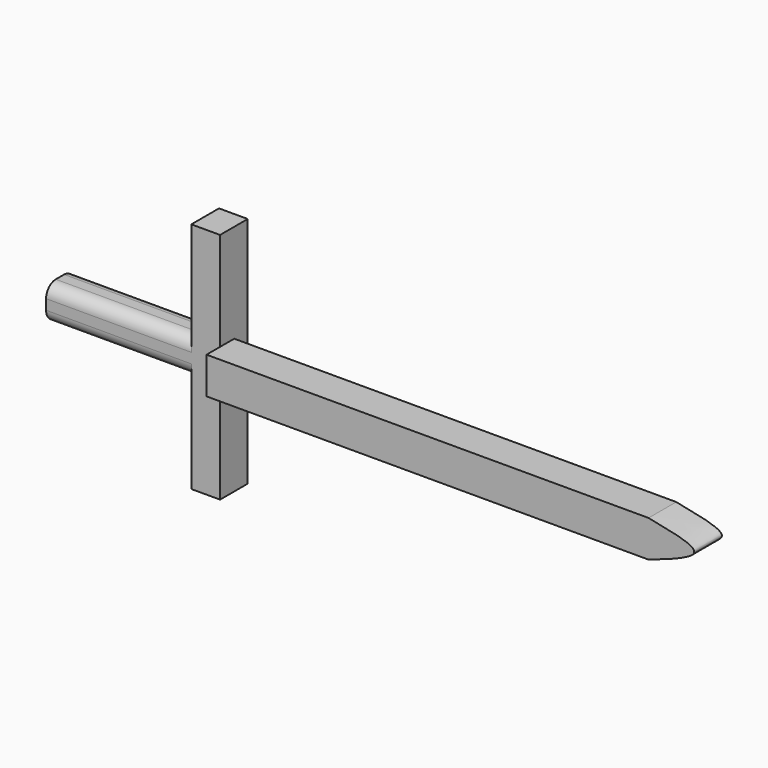
from build123d import *

# Parameters (mm, degrees)
F0_W     = 4.2195208371
F0_H     = 14.7683215328
F0_H_2   = 14.40386381
F0_H_3   = 5.0528156571
F0_W_2   = 21.3320218027
F1_DEPTH = 2.54
F2_R     = 1.778
F3_W     = 64.9182964116
F3_H     = 5.3898948245
F4_DEPTH = 5.08


with BuildPart() as f1:
    # F0 (on Front) → F1 (new body, symmetric)
    with BuildSketch(Plane.XZ):
        with Locations((-40.605539456, 12.4369764235)):
            Rectangle(F0_W, F0_H)
        with Locations((-40.605539456, -7.201931905)):
            Rectangle(F0_W, F0_H_2)
        with Locations((-40.605539456, 2.5264078286)):
            Rectangle(F0_W, F0_H_3)
        with Locations((-53.3813107759, 2.5264078286)):
            Rectangle(F0_W_2, F0_H_3)
    extrude(amount=F1_DEPTH, both=True)

    # F2
    f2_edges = [f1.edges().sort_by_distance(p)[0] for p in [
        (-53.381311, -2.54, 5.052816),
        (-53.381311, 2.54, 0),
        (-53.381311, 2.54, 5.052816),
        (-53.381311, -2.54, 0),
    ]]
    fillet(f2_edges, radius=F2_R)


with BuildPart() as f4:
    # F3 (on Front) → F4 (new body)
    with BuildSketch(Plane.XZ):
        with Locations((-5.9887720272, 2.6949474122)):
            Rectangle(F3_W, F3_H)
        with BuildLine():
            add(Edge.make_bspline(
                [(26.4703761786, 5.3898948245), (29.7935745055, 4.7525771684), (36.533219355, 3.4600588664), (29.8554545831, 1.1639424705), (26.4703761786, 0)],
                knots=[0, 0, 0, 0, 0.4930821135, 1, 1, 1, 1], degree=3))
            Line((26.4703761786, 5.3898948245), (26.4703761786, 0))
        make_face()
    extrude(amount=F4_DEPTH)


solid = Compound([f1.part, f4.part])
